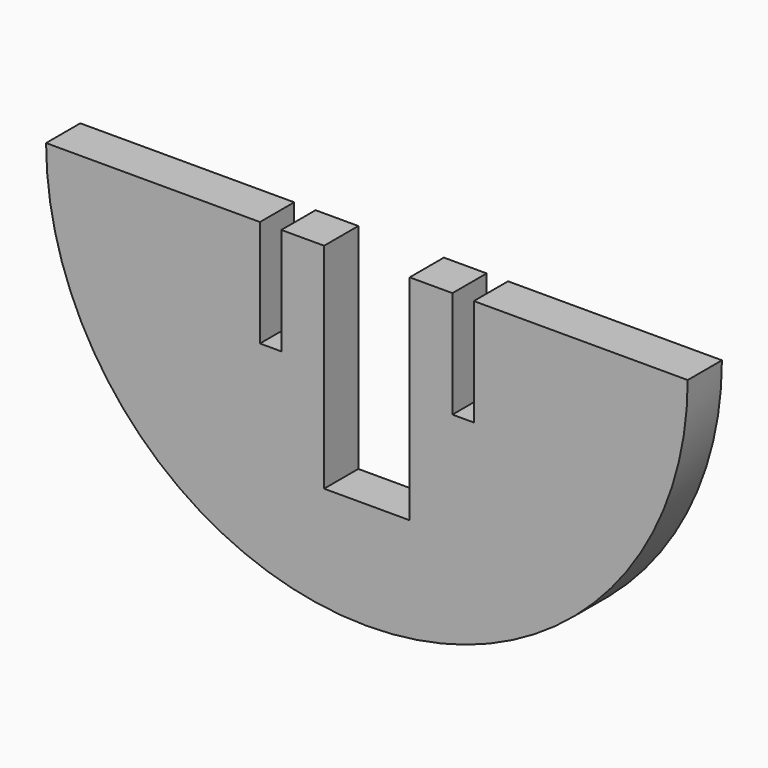
from build123d import *

# Parameters (mm, degrees)
F1_DEPTH = 10


with BuildPart() as f1:
    # F0 (on Front) → F1 (new body)
    with BuildSketch(Plane.XZ):
        with BuildLine():
            Line((-10, 18.563321), (-20, 18.563321))
            Line((-20, 18.563321), (-20, -6.436679))
            Line((-20, -6.436679), (-25, -6.436679))
            Line((-25, -6.436679), (-25, 18.563321))
            Line((-25, 18.563321), (-75, 18.563321))
            ThreePointArc((-75, 18.563321), (-53.033009, -34.469688), (0, -56.436679))
            ThreePointArc((0, -56.436679), (53.033009, -34.469688), (75, 18.563321))
            Line((75, 18.563321), (25, 18.563321))
            Line((25, 18.563321), (25, -6.436679))
            Line((25, -6.436679), (20, -6.436679))
            Line((20, -6.436679), (20, 18.563321))
            Line((20, 18.563321), (10, 18.563321))
            Line((10, 18.563321), (10, -31.436679))
            Line((10, -31.436679), (0, -31.436679))
            Line((0, -31.436679), (-10, -31.436679))
            Line((-10, -31.436679), (-10, 18.563321))
        make_face()
    extrude(amount=F1_DEPTH)


solid = f1.part
